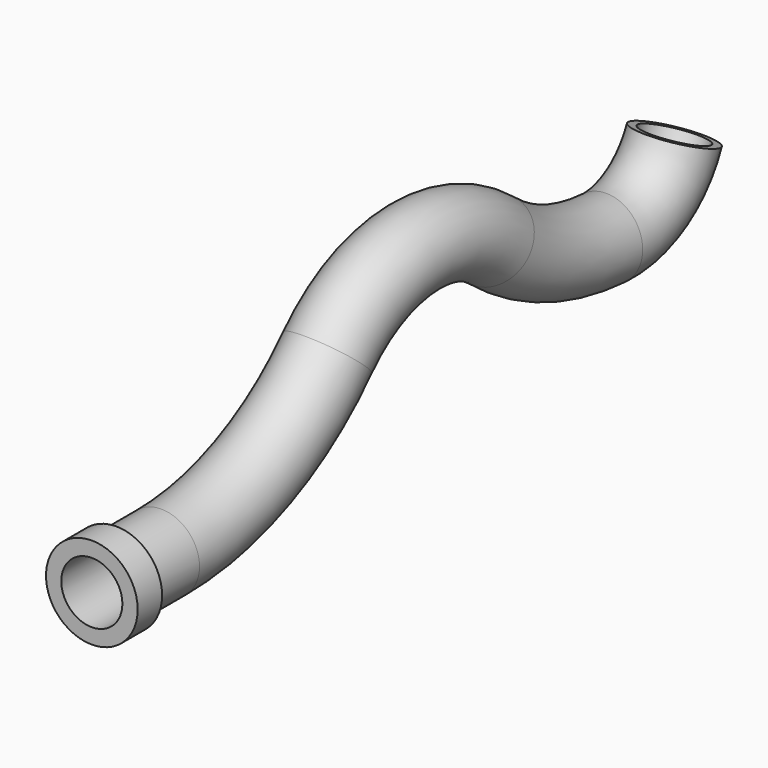
from build123d import *

# Parameters (mm, degrees)
F0_R     = 12.5
F0_R_2   = 10
F3_R     = 15
F4_DEPTH = 10
F5_R     = 10
F6_DEPTH = 10


with BuildPart() as f2:
    # F2: sweep along a path in F1
    with BuildLine(Plane.YZ) as f2_path:
        Line((0, 0), (28.4301, 0))
        ThreePointArc((28.4301, 0), (65.578452, 7.833498), (96.400682, 30))
        ThreePointArc((96.400682, 30), (128.961795, 45.842828), (163.511099, 35))
        ThreePointArc((163.511099, 35), (185.201837, 22.37743), (209.715111, 17))
        ThreePointArc((209.715111, 17), (226.91087, 21.402232), (238.320273, 35))
    # F0 (on Front) → F2 (sweep)
    with BuildSketch(Plane.XZ):
        Circle(F0_R)
        Circle(F0_R_2, mode=Mode.SUBTRACT)
    sweep(path=f2_path.line)

    # F3 (on Front) → F4 (join)
    with BuildSketch(Plane.XZ):
        Circle(F3_R)
    extrude(amount=-F4_DEPTH)

    # F5 (on face) → F6 (cut)
    with BuildSketch(Plane.XZ):
        Circle(F5_R)
    extrude(amount=-F6_DEPTH, mode=Mode.SUBTRACT)


solid = f2.part
